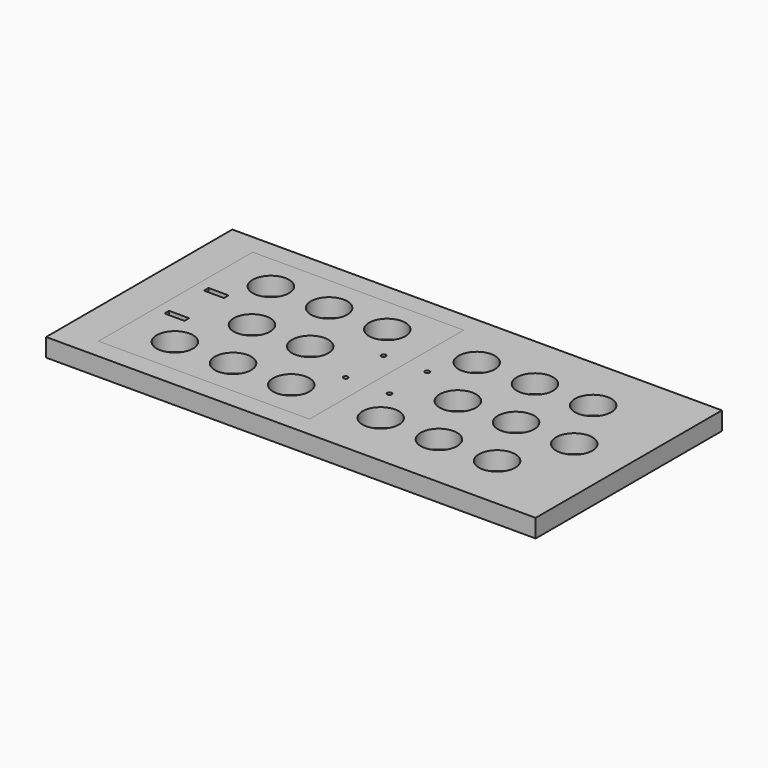
from build123d import *

# Parameters (mm, degrees)
F0_W     = 170.942
F0_H     = 81.28
F0_R     = 6.35
F1_DEPTH = 6.35
F0_W_2   = 6.985
F0_H_2   = 2.0066
F0_R_2   = 0.79375
F2_DEPTH = 6.35


with BuildPart() as f1:
    # F0 (on Top) → F1 (new body)
    with BuildSketch(Plane.XY):
        with Locations((85.471, -40.64)):
            Rectangle(F0_W, F0_H)
        Polygon((12.7, -74.295), (12.7, -6.985), (86.36, -6.985), (86.36, -32.385), (86.36, -40.64), (86.36, -48.895), (86.36, -74.295), align=None, mode=Mode.SUBTRACT)
        with Locations((101.092, -61.595)):
            Circle(F0_R, mode=Mode.SUBTRACT)
        with Locations((121.412, -61.595)):
            Circle(F0_R, mode=Mode.SUBTRACT)
        with Locations((141.732, -61.595)):
            Circle(F0_R, mode=Mode.SUBTRACT)
        with BuildLine():
            ThreePointArc((94.79915, -48.895), (94.0054, -49.68875), (93.21165, -48.895))
            ThreePointArc((93.21165, -48.895), (94.0054, -48.10125), (94.79915, -48.895))
        make_face(mode=Mode.SUBTRACT)
        with Locations((111.252, -40.64)):
            Circle(F0_R, mode=Mode.SUBTRACT)
        with Locations((131.572, -40.64)):
            Circle(F0_R, mode=Mode.SUBTRACT)
        with Locations((151.892, -40.64)):
            Circle(F0_R, mode=Mode.SUBTRACT)
        with BuildLine():
            ThreePointArc((94.79915, -32.385), (94.0054, -33.17875), (93.21165, -32.385))
            ThreePointArc((93.21165, -32.385), (94.0054, -31.59125), (94.79915, -32.385))
        make_face(mode=Mode.SUBTRACT)
        with Locations((101.092, -19.685)):
            Circle(F0_R, mode=Mode.SUBTRACT)
        with Locations((121.412, -19.685)):
            Circle(F0_R, mode=Mode.SUBTRACT)
        with Locations((141.732, -19.685)):
            Circle(F0_R, mode=Mode.SUBTRACT)
    extrude(amount=F1_DEPTH)


with BuildPart() as f2:
    # F0 (on Top) → F2 (new body)
    with BuildSketch(Plane.XY):
        Polygon((86.36, -6.985), (12.7, -6.985), (12.7, -74.295), (86.36, -74.295), (86.36, -48.895), (86.36, -40.64), (86.36, -32.385), align=None)
        with Locations((29.21, -61.595)):
            Circle(F0_R, mode=Mode.SUBTRACT)
        with Locations((49.53, -61.595)):
            Circle(F0_R, mode=Mode.SUBTRACT)
        with Locations((69.85, -61.595)):
            Circle(F0_R, mode=Mode.SUBTRACT)
        with Locations((20.0025, -49.2633)):
            Rectangle(F0_W_2, F0_H_2, mode=Mode.SUBTRACT)
        with Locations((39.37, -40.64)):
            Circle(F0_R, mode=Mode.SUBTRACT)
        with Locations((59.69, -40.64)):
            Circle(F0_R, mode=Mode.SUBTRACT)
        with Locations((78.7146, -48.895)):
            Circle(F0_R_2, mode=Mode.SUBTRACT)
        with Locations((20.0025, -32.0167)):
            Rectangle(F0_W_2, F0_H_2, mode=Mode.SUBTRACT)
        with Locations((78.7146, -32.385)):
            Circle(F0_R_2, mode=Mode.SUBTRACT)
        with Locations((29.21, -19.685)):
            Circle(F0_R, mode=Mode.SUBTRACT)
        with Locations((49.53, -19.685)):
            Circle(F0_R, mode=Mode.SUBTRACT)
        with Locations((69.85, -19.685)):
            Circle(F0_R, mode=Mode.SUBTRACT)
    extrude(amount=F2_DEPTH)


solid = Compound([f1.part, f2.part])
